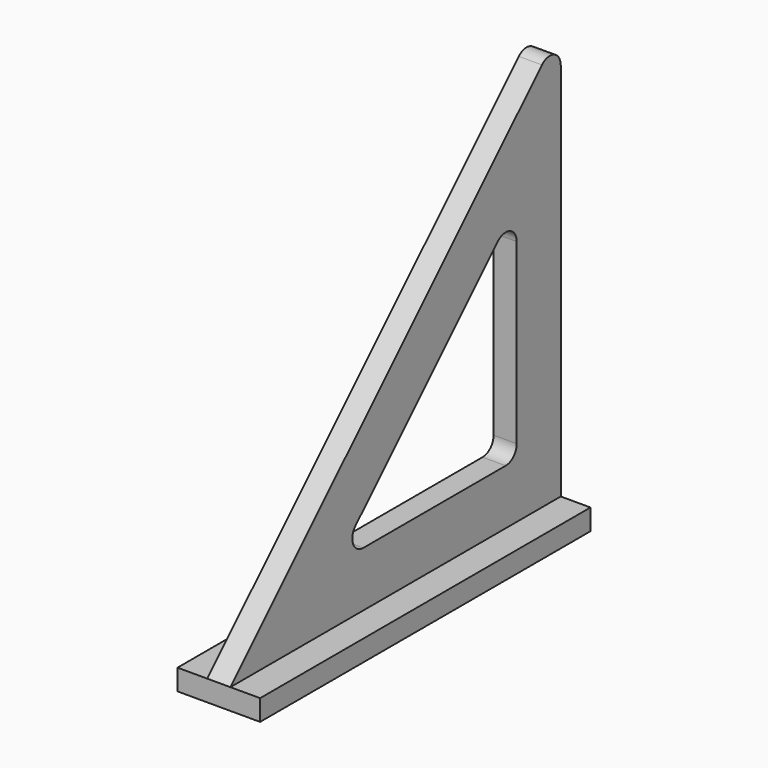
from build123d import *

# Parameters (mm, degrees)
F1_DEPTH      = 2.667
F1_DEPTH_BACK = 2.667
F2_W          = 95.25
F2_H          = 4.826
F3_DEPTH      = 9.525
F3_DEPTH_BACK = 9.525
F4_R          = 3.175
F4_R_2        = 7.14375
F5_DEPTH      = 3.556
F6_R          = 1.524
F7_DEPTH      = 10.16


with BuildPart() as f1:
    # F0 (on Right) → F1 (new body, two sides)
    with BuildSketch(Plane.YZ) as f1_sk:
        with BuildLine():
            Line((89.8299359697, 89.8299359697), (0, 0))
            Line((0, 0), (7.6651280605, 0))
            Line((7.6651280605, 0), (95.25, 0))
            Line((95.25, 0), (95.25, 87.5848719395))
            ThreePointArc((95.25, 87.5848719395), (93.2900198978, 90.5181894552), (89.8299359697, 89.8299359697))
        make_face()
        with BuildLine():
            ThreePointArc((38.3256403027, 12.7), (35.3923227869, 14.6599801022), (36.0805762724, 18.1200640303))
            Line((36.0805762724, 18.1200640303), (77.1299359697, 59.1694237276))
            ThreePointArc((77.1299359697, 59.1694237276), (80.5900198978, 59.8576772131), (82.55, 56.9243596973))
            Line((82.55, 56.9243596973), (82.55, 15.875))
            ThreePointArc((82.55, 15.875), (81.6200640303, 13.6299359697), (79.375, 12.7))
            Line((79.375, 12.7), (38.3256403027, 12.7))
        make_face(mode=Mode.SUBTRACT)
    extrude(amount=F1_DEPTH)
    extrude(f1_sk.sketch, amount=-F1_DEPTH_BACK)

    # F2 (on Right) → F3 (join, two sides)
    with BuildSketch(Plane.YZ) as f3_sk:
        with Locations((47.625, -2.413)):
            Rectangle(F2_W, F2_H)
    extrude(amount=F3_DEPTH)
    extrude(f3_sk.sketch, amount=-F3_DEPTH_BACK)

    # F4 (on face) → F5 (cut)
    with BuildSketch(Plane(origin=(0, 0, -4.826), x_dir=(1, 0, 0), z_dir=(0, 0, -1))):
        with Locations((0, -85.09)):
            Circle(F4_R)
        with Locations((0, -10.16)):
            Circle(F4_R)
        with Locations((0, -73.66)):
            Circle(F4_R_2)
        with Locations((0, -21.59)):
            Circle(F4_R_2)
    extrude(amount=-F5_DEPTH, mode=Mode.SUBTRACT)

    # F6 (on face) → F7 (cut)
    with BuildSketch(Plane(origin=(0, 0, -4.826), x_dir=(1, 0, 0), z_dir=(0, 0, -1))):
        with Locations((0, -85.09)):
            Circle(F6_R)
        with Locations((0, -10.16)):
            Circle(F6_R)
    extrude(amount=-F7_DEPTH, mode=Mode.SUBTRACT)


solid = f1.part
